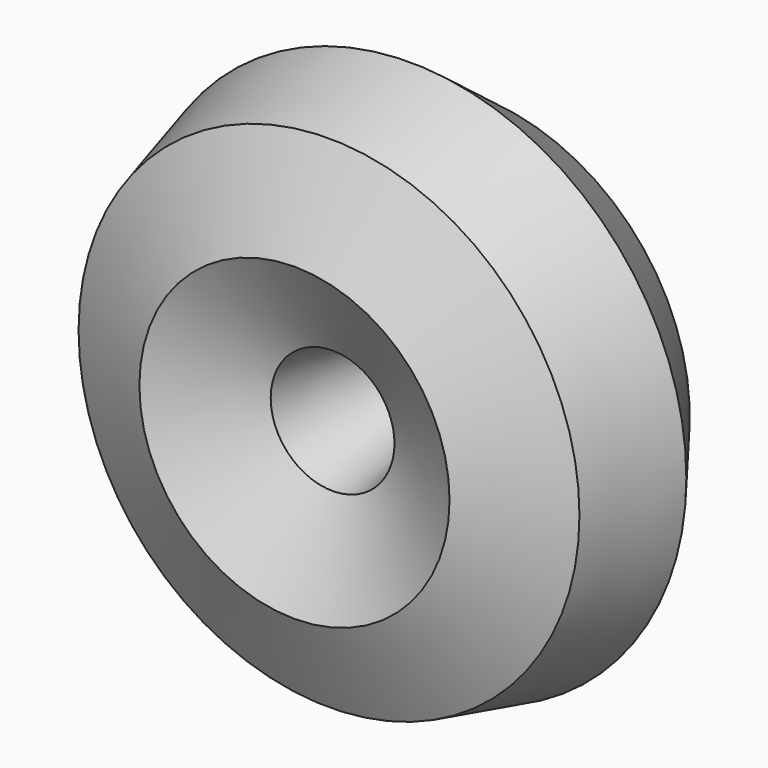
from build123d import *

# Parameters (mm, degrees)
F0_R = 16.677954


with BuildPart() as f2:
    # F0 (on Top) → F2 (revolve)
    with BuildSketch(Plane.XY):
        Polygon((46.619876, -35.406111), (56.74863, 14.373538), (24.144508, 53.329619), (-26.640921, 52.12741), (-57.365193, 11.672198), (-44.892304, -37.572418), (1.385405, -58.524236), align=None)
        Circle(F0_R, mode=Mode.SUBTRACT)
    revolve(axis=Axis((76.640435, 3.132816, 0), (0, -1, 0)))


solid = f2.part
